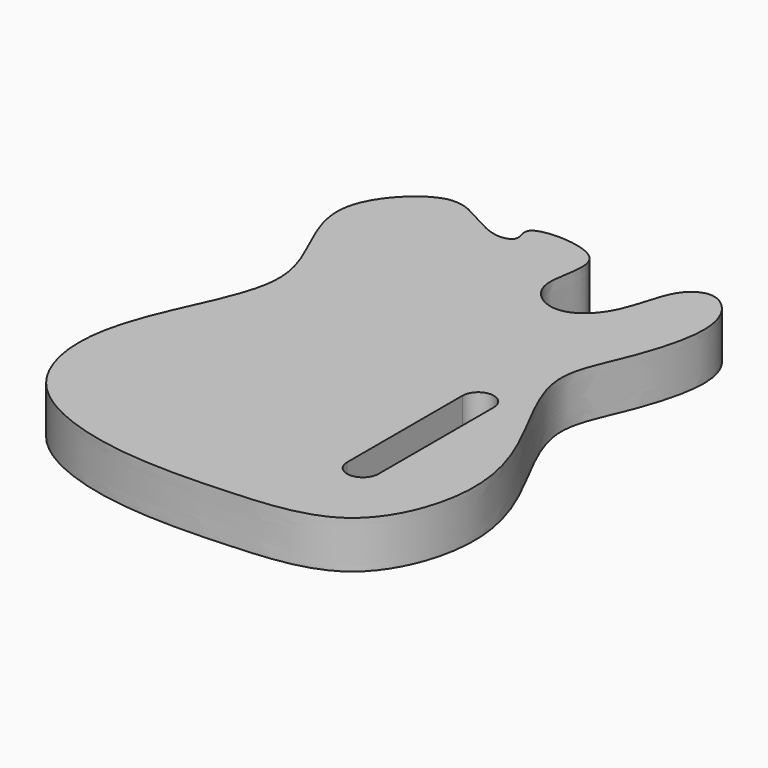
from build123d import *

# Parameters (mm, degrees)
F1_DEPTH = 38.1
F2_DEPTH = 25.4


with BuildPart() as f1:
    # F0 (on Top) → F1 (new body)
    with BuildSketch(Plane.XY):
        with BuildLine():
            add(Edge.make_bspline(
                [(-67.3652526132, 168.1767298641), (-83.5811908704, 164.6372888733), (-122.3564946315, 125.709689499), (-100.2178670806, 70.3936357251), (-71.676422695, 14.9236620328), (-111.8518206547, -60.4486149259), (-133.5501824523, -127.6559401367), (-112.5059420472, -198.4463663944), (-25.8199412755, -233.2280231903), (74.241879678, -230.7351044673), (166.179643083, -222.6166115443), (200.0378188239, -133.9724851412), (178.0250602157, -60.0695568989), (129.5071379713, 16.400963236), (155.425758679, 65.5810948897), (173.8686020518, 123.0911453659), (166.5036258143, 157.2316362686), (144.9397857224, 174.7633670651), (119.6834179168, 160.1792822139), (114.7609730284, 112.703267109), (80.2463429493, 85.1759075685), (42.0490546333, 113.4892048767), (73.9988131938, 172.8295290884), (-10.9351081091, 175.0529225401), (4.1676903639, 152.7215217466), (-11.7525053813, 146.1624410286), (-35.959061649, 158.4285954983), (-55.2006270733, 170.8318937892), (-67.3652526132, 168.1767298641)],
                knots=[0, 0, 0, 0, 0.041939425, 0.0821225162, 0.1234980116, 0.1720761189, 0.2177892433, 0.2611702039, 0.311405327, 0.3666612255, 0.4162889241, 0.4646708205, 0.5127760179, 0.5622523938, 0.6011291493, 0.6430127513, 0.6741689204, 0.6998936699, 0.7254919588, 0.7625269311, 0.7951947025, 0.8265287123, 0.8634073644, 0.9026545012, 0.9222667941, 0.9403367536, 0.968538521, 1, 1, 1, 1], degree=3))
        make_face()
        with BuildLine():
            ThreePointArc((-1.8290656763, -48.1254651824), (-8.1337176154, -36.2215744769), (3.77017309, -29.9169225378))
            Line((3.77017309, -29.9169225378), (56.2905561393, -46.0672630968))
            ThreePointArc((56.2905561393, -46.0672630968), (62.5952080784, -57.9711538022), (50.691317373, -64.2758057413))
            Line((50.691317373, -64.2758057413), (-1.8290656763, -48.1254651824))
        make_face(mode=Mode.SUBTRACT)
        with BuildLine():
            ThreePointArc((107.3920417905, -35.2057213325), (120.0920417905, -22.5057213325), (132.7920417905, -35.2057213325))
            Line((132.7920417905, -35.2057213325), (132.7920417905, -151.495218277))
            ThreePointArc((132.7920417905, -151.495218277), (120.0920417905, -164.195218277), (107.3920417905, -151.495218277))
            Line((107.3920417905, -151.495218277), (107.3920417905, -35.2057213325))
        make_face(mode=Mode.SUBTRACT)
        with BuildLine():
            add(Edge.make_bspline(
                [(57.5692921243, 81.1083444838), (45.0139823625, 83.1528408702), (-3.9694727571, 82.7423093661), (-11.3285349917, 77.094664662), (-16.140343429, 69.4610904077), (-9.1929834634, 57.769851657), (18.8315815613, 54.0404447817), (31.6196650703, 53.5187853392), (63.2043267422, 59.7619127213), (68.586123243, 70.2242160398), (65.2029885591, 78.2640879593), (62.2541881105, 80.3454598481), (57.5692921243, 81.1083444838)],
                knots=[0, 0, 0, 0, 0.1942969857, 0.2709432368, 0.3372338453, 0.4200902155, 0.5485446559, 0.6462225252, 0.7832829014, 0.8613740063, 0.9274999036, 1, 1, 1, 1], degree=3))
        make_face(mode=Mode.SUBTRACT)
        with BuildLine():
            add(Edge.make_bspline(
                [(57.5692921243, 81.1083444838), (45.0139823625, 83.1528408702), (-3.9694727571, 82.7423093661), (-11.3285349917, 77.094664662), (-16.140343429, 69.4610904077), (-9.1929834634, 57.769851657), (18.8315815613, 54.0404447817), (31.6196650703, 53.5187853392), (63.2043267422, 59.7619127213), (68.586123243, 70.2242160398), (65.2029885591, 78.2640879593), (62.2541881105, 80.3454598481), (57.5692921243, 81.1083444838)],
                knots=[0, 0, 0, 0, 0.1942969857, 0.2709432368, 0.3372338453, 0.4200902155, 0.5485446559, 0.6462225252, 0.7832829014, 0.8613740063, 0.9274999036, 1, 1, 1, 1], degree=3))
        make_face()
        with BuildLine():
            Line((132.7920417905, -151.495218277), (132.7920417905, -35.2057213325))
            ThreePointArc((132.7920417905, -35.2057213325), (120.0920417905, -22.5057213325), (107.3920417905, -35.2057213325))
            Line((107.3920417905, -35.2057213325), (107.3920417905, -151.495218277))
            ThreePointArc((107.3920417905, -151.495218277), (120.0920417905, -164.195218277), (132.7920417905, -151.495218277))
        make_face()
        with BuildLine():
            Line((56.2905561393, -46.0672630968), (3.77017309, -29.9169225378))
            ThreePointArc((3.77017309, -29.9169225378), (-8.1337176154, -36.2215744769), (-1.8290656763, -48.1254651824))
            Line((-1.8290656763, -48.1254651824), (50.691317373, -64.2758057413))
            ThreePointArc((50.691317373, -64.2758057413), (62.5952080784, -57.9711538022), (56.2905561393, -46.0672630968))
        make_face()
    extrude(amount=-F1_DEPTH)

    # F0 (on Top) → F2 (cut)
    with BuildSketch(Plane.XY):
        with BuildLine():
            Line((132.7920417905, -151.495218277), (132.7920417905, -35.2057213325))
            ThreePointArc((132.7920417905, -35.2057213325), (120.0920417905, -22.5057213325), (107.3920417905, -35.2057213325))
            Line((107.3920417905, -35.2057213325), (107.3920417905, -151.495218277))
            ThreePointArc((107.3920417905, -151.495218277), (120.0920417905, -164.195218277), (132.7920417905, -151.495218277))
        make_face()
    extrude(amount=-F2_DEPTH, mode=Mode.SUBTRACT)


solid = f1.part
